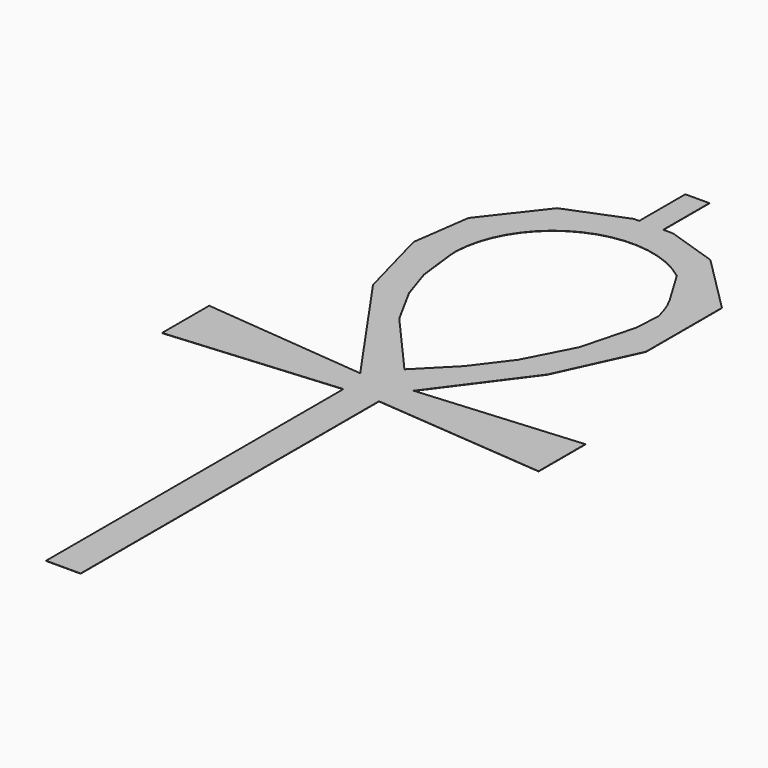
from build123d import *

# Parameters (mm, degrees)
SKETCH_W         = 3.322
SKETCH_H         = 8.904724
EXTRUDE003_DEPTH = 0.035
EXTRUDE_DEPTH    = 0.035


with BuildPart() as obj1:
    # Sketch (on Face6 of Extrude001) → Extrude003 (new body)
    with BuildSketch(Plane.XY):
        with Locations((25.530795, 3.517178)):
            Rectangle(SKETCH_W, SKETCH_H)
    extrude(amount=EXTRUDE003_DEPTH)


with BuildPart() as copper_layer:
    # Sketch006 → Extrude (new body)
    with BuildSketch(Plane.XY):
        Polygon((23.498381, -102.062126), (28.273891, -102.062126), (28.273891, -50.486412), (51.949276, -52.498531), (51.949276, -44.41013), (29.665995, -46.231361), (38.564362, -34.246563), (43.545963, -23.426317), (43.545963, -10.302752), (35.56469, -2.321481), (28.543734, 0), (23.13361, 0), (15.098775, -3.218604), (9.045863, -10.985613), (7.920988, -19.074015), (10.759965, -29.626432), (22.596775, -46.640076), (0, -44.497452), (0, -52.63942), (23.498381, -50.665943), align=None)
        with BuildLine():
            Line((12.900836, -18.866589), (13.548023, -24.306177))
            Line((13.548023, -24.306177), (14.994295, -28.698555))
            Line((14.994295, -28.698555), (17.886837, -34.001549))
            Line((17.886837, -34.001549), (25.760977, -42.946999))
            Line((25.760977, -42.946999), (30.314053, -38.340359))
            Line((30.314053, -38.340359), (33.956512, -33.519459))
            Line((33.956512, -33.519459), (37.277576, -27.091587))
            Line((37.277576, -27.091587), (39.221496, -19.680452))
            Line((39.221496, -19.680452), (39.317309, -17.981558))
            Line((39.317309, -17.981558), (39.421192, -16.139563))
            ThreePointArc((39.421192, -16.139563), (38.632704, -13.668833), (37.394095, -11.390222))
            Line((35.933163, -8.951125), (37.394095, -11.390222))
            Line((35.933163, -8.951125), (35.047039, -7.469805))
            ThreePointArc((35.047039, -7.469805), (20.72172, -5.915046), (12.85167, -17.985437))
            Line((12.900836, -18.866589), (12.85167, -17.985437))
        make_face(mode=Mode.SUBTRACT)
    extrude(amount=EXTRUDE_DEPTH)

    # Fusion: union obj1
    add(obj1.part)


solid = copper_layer.part
